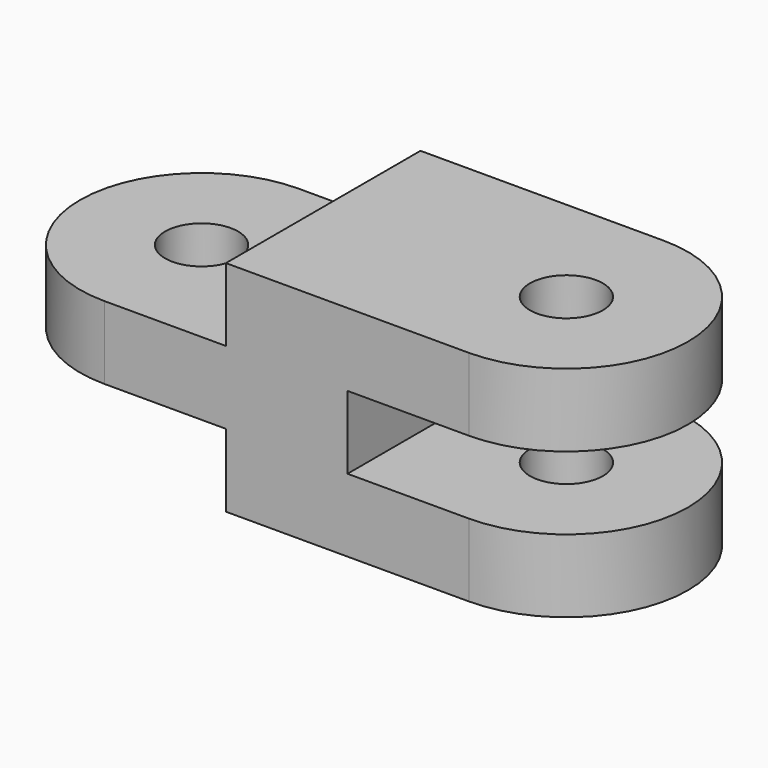
from build123d import *

# Parameters (mm, degrees)
F0_R     = 1.5
F1_DEPTH = 4.5
F2_W     = 5
F2_H     = 3
F3_DEPTH = 10.001


with BuildPart() as f1:
    # F0 (on Top) → F1 (new body, symmetric)
    with BuildSketch(Plane.XY):
        with BuildLine():
            Line((7.5, 5), (-7.5, 5))
            ThreePointArc((-7.5, 5), (-12.5, 0), (-7.5, -5))
            Line((-7.5, -5), (7.5, -5))
            ThreePointArc((7.5, -5), (12.5, 0), (7.5, 5))
        make_face()
        with Locations((-7.5, 0)):
            Circle(F0_R, mode=Mode.SUBTRACT)
        with Locations((7.5, 0)):
            Circle(F0_R, mode=Mode.SUBTRACT)
    extrude(amount=F1_DEPTH, both=True)

    # F2 (on face) → F3 (cut, through all)
    with BuildSketch(Plane.XZ.offset(5)):
        with Locations((-10, 3)):
            Rectangle(F2_W, F2_H)
        with Locations((-5, -3)):
            Rectangle(F2_W, F2_H)
        with Locations((-5, 3)):
            Rectangle(F2_W, F2_H)
        with Locations((-10, -3)):
            Rectangle(F2_W, F2_H)
        with Locations((10, 0)):
            Rectangle(F2_W, F2_H)
        with Locations((5, 0)):
            Rectangle(F2_W, F2_H)
    extrude(amount=-F3_DEPTH, mode=Mode.SUBTRACT)


solid = f1.part
